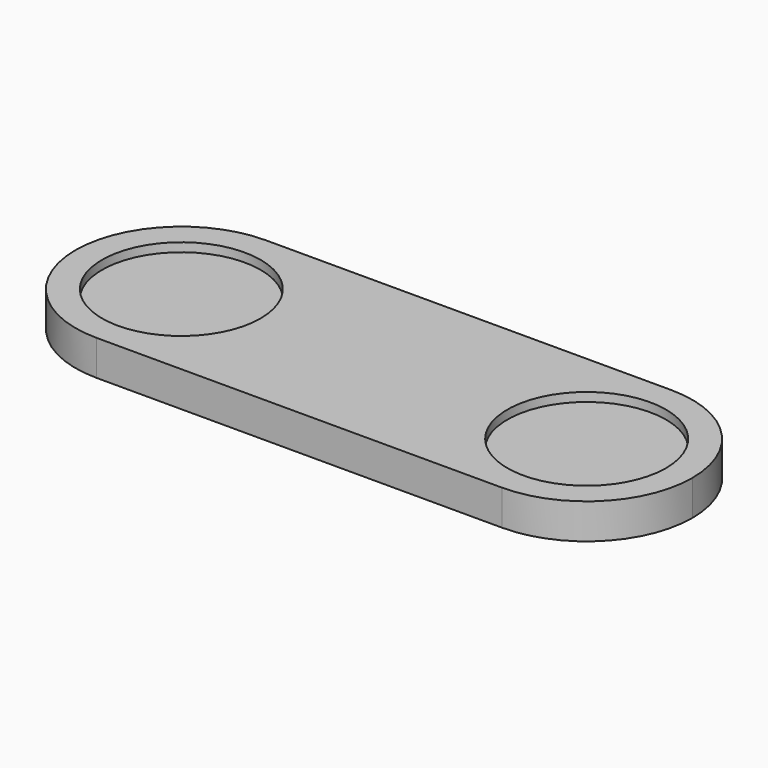
from build123d import *

# Parameters (mm, degrees)
F1_DEPTH = 2
F2_R     = 4.5
F3_DEPTH = 0.5


with BuildPart() as f1:
    # F0 (on Top) → F1 (new body)
    with BuildSketch(Plane.XY):
        with BuildLine():
            ThreePointArc((-49.731933, -6), (-45.489292, -4.242641), (-43.731933, 0))
            ThreePointArc((-43.731933, 0), (-45.489292, 4.242641), (-49.731933, 6))
            ThreePointArc((-49.731933, 6), (-55.731933, 0), (-49.731933, -6))
        make_face()
        with BuildLine():
            ThreePointArc((-49.731933, 6), (-45.489292, 4.242641), (-43.731933, 0))
            ThreePointArc((-43.731933, 0), (-45.489292, -4.242641), (-49.731933, -6))
            Line((-49.731933, -6), (-26.731933, -6))
            ThreePointArc((-26.731933, -6), (-32.731933, 0), (-26.731933, 6))
            Line((-26.731933, 6), (-49.731933, 6))
        make_face()
        with BuildLine():
            ThreePointArc((-20.731933, 0), (-22.489292, 4.242641), (-26.731933, 6))
            ThreePointArc((-26.731933, 6), (-32.731933, 0), (-26.731933, -6))
            ThreePointArc((-26.731933, -6), (-22.489292, -4.242641), (-20.731933, 0))
        make_face()
    extrude(amount=F1_DEPTH)

    # F2 (on face) → F3 (cut)
    with BuildSketch(Plane.XY.offset(2)):
        with Locations((-49.731933, 0)):
            Circle(F2_R)
        with Locations((-26.731933, 0)):
            Circle(F2_R)
    extrude(amount=-F3_DEPTH, mode=Mode.SUBTRACT)


solid = f1.part
